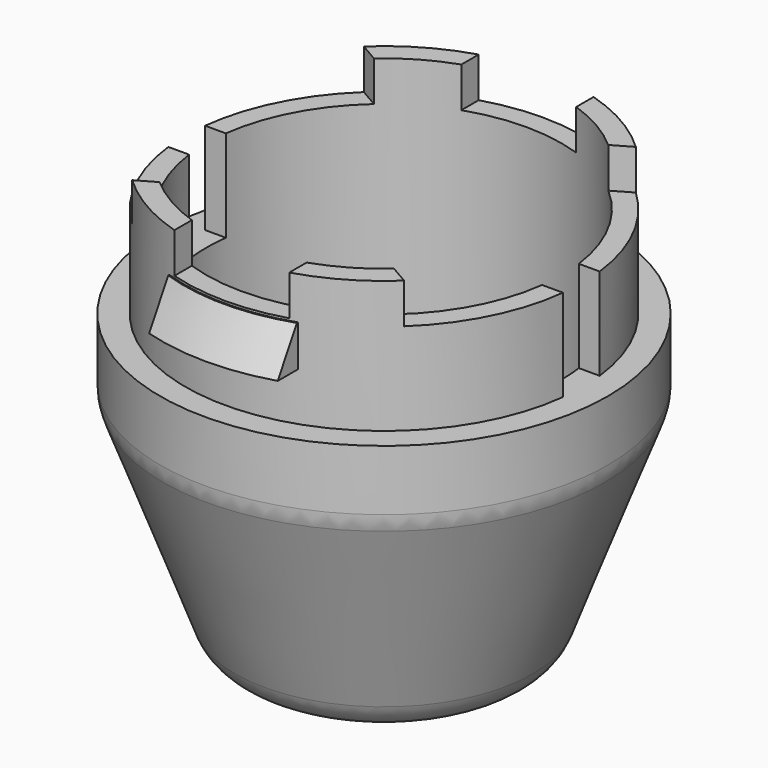
from build123d import *

# Parameters (mm, degrees)
BOX029_W               = 20
BOX029_H               = 5
BOX029_DEPTH           = 2
BOX029_PLACEMENT_ANGLE = 30
BOX027_W               = 20
BOX027_H               = 5
BOX027_DEPTH           = 2
BOX028_W               = 20
BOX028_H               = 5
BOX028_DEPTH           = 2
BOX028_PLACEMENT_ANGLE = 150
BOX030_W               = 20
BOX030_H               = 5
BOX030_DEPTH           = 2
BOX008_W               = 20
BOX008_H               = 2
BOX008_DEPTH           = 6
CYLINDER039_R          = 3.7
CYLINDER039_DEPTH      = 1.2
CYLINDER038_R          = 6
CYLINDER038_DEPTH      = 1.2
CYLINDER036_R          = 7.75
CYLINDER036_DEPTH      = 11
CYLINDER035_R          = 7.3
CYLINDER035_DEPTH      = 11
BOX007_W               = 5.6
BOX007_H               = 20
BOX007_DEPTH           = 1.8
CYLINDER037_R          = 9.75
CYLINDER037_DEPTH      = 3
CYLINDER_R             = 8.65
CYLINDER_DEPTH         = 5.75
FILLET002_R            = 2


with BuildPart() as cube029:
    # Box029 → Box029 (new body)
    with BuildSketch(Plane.XY):
        with Locations((10, 2.5)):
            Rectangle(BOX029_W, BOX029_H)
    extrude(amount=BOX029_DEPTH)


with BuildPart() as cube029_1:
    # Box029 placement: moved
    add(cube029.part.moved(Location((-7.410254, -7.165064, -1))).rotate(Axis((-7.410254, -7.165064, -1), (0, 0, 1)), BOX029_PLACEMENT_ANGLE))


with BuildPart() as cube027:
    # Box027 → Box027 (new body)
    with BuildSketch(Plane(origin=(2.5, -10, -1), x_dir=(0, 1, 0), z_dir=(0, 0, 1))):
        with Locations((10, 2.5)):
            Rectangle(BOX027_W, BOX027_H)
    extrude(amount=BOX027_DEPTH)


with BuildPart() as cube028:
    # Box028 → Box028 (new body)
    with BuildSketch(Plane.XY):
        with Locations((10, 2.5)):
            Rectangle(BOX028_W, BOX028_H)
    extrude(amount=BOX028_DEPTH)


with BuildPart() as cube028_1:
    # Box028 placement: moved
    add(cube028.part.moved(Location((9.910254, -2.834936, -1))).rotate(Axis((9.910254, -2.834936, -1), (0, 0, 1)), BOX028_PLACEMENT_ANGLE))


with BuildPart() as cube030:
    # Box030 → Box030 (new body)
    with BuildSketch(Plane(origin=(10, 2.5, -1), x_dir=(-1, 0, 0), z_dir=(0, 0, 1))):
        with Locations((10, 2.5)):
            Rectangle(BOX030_W, BOX030_H)
    extrude(amount=BOX030_DEPTH)


with BuildPart() as fusion022:
    # Box008 → Box008 (new body)
    with BuildSketch(Plane(origin=(-10, -1, -5), x_dir=(1, 0, 0), z_dir=(0, 0, 1))):
        with Locations((10, 1)):
            Rectangle(BOX008_W, BOX008_H)
    extrude(amount=BOX008_DEPTH)

    # Fusion022: union Cube029, Cube027, Cube028, Cube030
    add(cube029_1.part)
    add(cube027.part)
    add(cube028_1.part)
    add(cube030.part)


with BuildPart() as cylinder037:
    # Cylinder039 → Cylinder039 (new body)
    with BuildSketch(Plane.XY.offset(-18)):
        Circle(CYLINDER039_R)
    extrude(amount=CYLINDER039_DEPTH)


with BuildPart() as top:
    # Cylinder038 → Cylinder038 (new body)
    with BuildSketch(Plane.XY.offset(-18)):
        Circle(CYLINDER038_R)
    extrude(amount=CYLINDER038_DEPTH)

    # Cut013004: cut Cylinder037
    add(cylinder037.part, mode=Mode.SUBTRACT)


with BuildPart() as cylinder034:
    # Cylinder036 → Cylinder036 (new body)
    with BuildSketch(Plane.XY.offset(-10)):
        Circle(CYLINDER036_R)
    extrude(amount=CYLINDER036_DEPTH)


with BuildPart() as fusion015:
    # Cone003 → Cone003 (revolve)
    with BuildSketch(Plane(origin=(0, 0, -18), x_dir=(1, 0, 0), z_dir=(0, -1, 0))):
        Polygon((0, 0), (5, 0), (7.75, 8), (0, 8), align=None)
    revolve(axis=Axis((0, 0, -18), (0, 0, 1)))

    # Fusion015: union Cylinder034
    add(cylinder034.part)


with BuildPart() as cylinder033:
    # Cylinder035 → Cylinder035 (new body)
    with BuildSketch(Plane.XY.offset(-9)):
        Circle(CYLINDER035_R)
    extrude(amount=CYLINDER035_DEPTH)


with BuildPart() as cube007:
    # Box007 → Box007 (new body)
    with BuildSketch(Plane(origin=(-2.8, -10, -7.9), x_dir=(1, 0, 0), z_dir=(0, 0, 1))):
        with Locations((2.8, 10)):
            Rectangle(BOX007_W, BOX007_H)
    extrude(amount=BOX007_DEPTH)


with BuildPart() as clips:
    # Cone002 → Cone002 (revolve)
    with BuildSketch(Plane(origin=(0, 0, -8), x_dir=(1, 0, 0), z_dir=(0, -1, 0))):
        Polygon((0, 0), (9.75, 0), (8.65, 2), (0, 2), align=None)
    revolve(axis=Axis((0, 0, -8), (0, 0, 1)))

    # Common: intersect Cube007
    add(cube007.part, mode=Mode.INTERSECT)

    # Cut013002: cut Cylinder033
    add(cylinder033.part, mode=Mode.SUBTRACT)


with BuildPart() as clips_1:
    # Cut013002 placement: moved
    add(clips.part.moved(Location((0, 0, 5))))


with BuildPart() as cylinder035:
    # Cylinder037 → Cylinder037 (new body)
    with BuildSketch(Plane.XY.offset(-8)):
        Circle(CYLINDER037_R)
    extrude(amount=CYLINDER037_DEPTH)


with BuildPart() as cylinder:
    # Cylinder → Cylinder (new body)
    with BuildSketch(Plane.XY.offset(-5)):
        Circle(CYLINDER_R)
    extrude(amount=CYLINDER_DEPTH)


with BuildPart() as connector_body:
    # Cone → Cone (revolve)
    with BuildSketch(Plane(origin=(0, 0, -18), x_dir=(1, 0, 0), z_dir=(0, -1, 0))):
        Polygon((0, 0), (6, 0), (9.75, 10), (0, 10), align=None)
    revolve(axis=Axis((0, 0, -18), (0, 0, 1)))

    # Fusion014: union Clips, Cylinder035, Cylinder
    add(clips_1.part)
    add(cylinder035.part)
    add(cylinder.part)

    # Cut013003: cut Fusion015
    add(fusion015.part, mode=Mode.SUBTRACT)

    # Fusion021: union Top
    add(top.part)

    # Fillet002
    fillet002_edges = [connector_body.edges().sort_by_distance(p)[0] for p in [
        (-9.75, 0, -8),
        (-6, 0, -18),
    ]]
    fillet(fillet002_edges, radius=FILLET002_R)

    # Cut013011: cut Fusion022
    add(fusion022.part, mode=Mode.SUBTRACT)


with BuildPart() as connector_body_1:
    # Cut013011 placement: moved
    add(connector_body.part.moved(Location((0, 0, -8))))


solid = connector_body_1.part
